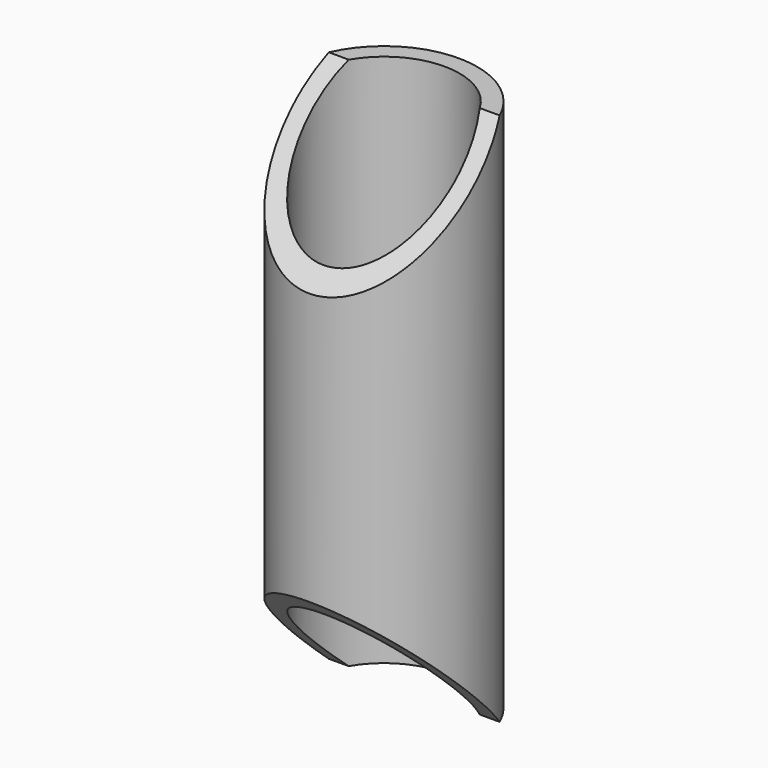
from build123d import *

# Parameters (mm, degrees)
F0_R     = 21
F0_R_2   = 17
F1_DEPTH = 60
F3_DEPTH = 21


with BuildPart() as f1:
    # F0 (on Top) → F1 (new body, symmetric)
    with BuildSketch(Plane.XY):
        Circle(F0_R)
        Circle(F0_R_2, mode=Mode.SUBTRACT)
    extrude(amount=F1_DEPTH, both=True)

    # F2 (on Right) → F3 (cut, symmetric)
    with BuildSketch(Plane.YZ):
        Polygon((-21, 30.5), (8.5, 60), (21, 60), (21, 70), (-21, 70), align=None)
        Polygon((21, -60), (8.5, -60), (-21, -30.5), (-21, -70), (21, -70), align=None)
    extrude(amount=F3_DEPTH, both=True, mode=Mode.SUBTRACT)


solid = f1.part
